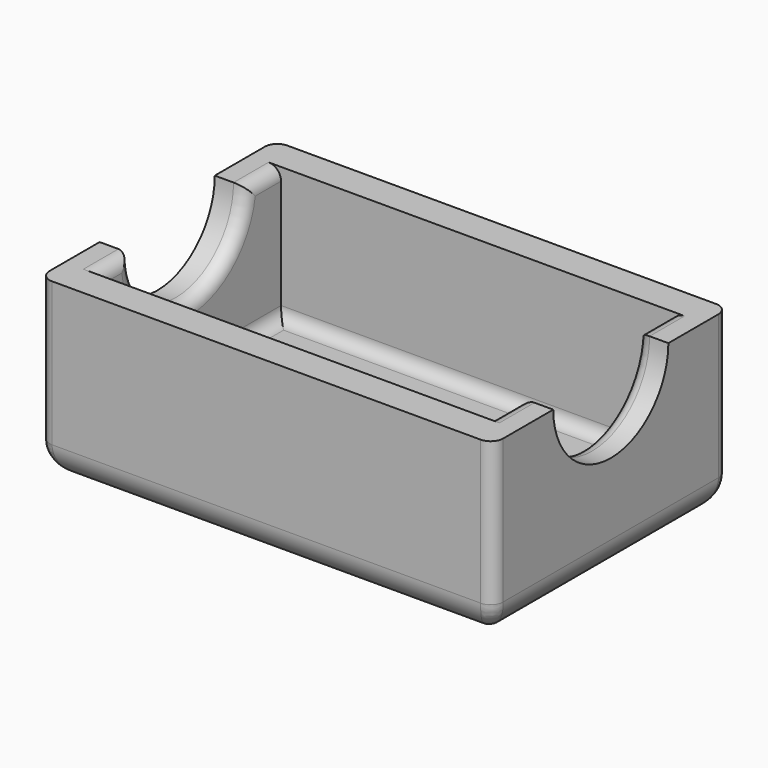
from build123d import *

# Parameters (mm, degrees)
F0_W     = 7.25
F0_H     = 4.7
F0_W_2   = 6.25
F0_H_2   = 3.7
F1_DEPTH = 2.8
F0_W_3   = 4
F0_H_3   = 2
F2_DEPTH = 0.65
F3_R     = 0.5
F5_DEPTH = 25
F6_R     = 0.2


with BuildPart() as f1:
    # F0 (on Top) → F1 (new body)
    with BuildSketch(Plane.XY):
        with Locations((-7.525, -4.5)):
            Rectangle(F0_W, F0_H)
        with Locations((-7.525, -4.5)):
            Rectangle(F0_W_2, F0_H_2, mode=Mode.SUBTRACT)
    extrude(amount=F1_DEPTH)

    # F0 (on Top) → F2 (join)
    with BuildSketch(Plane.XY):
        with Locations((-7.525, -4.5)):
            Rectangle(F0_W_2, F0_H_2)
        with Locations((-7.525, -4.5)):
            Rectangle(F0_W_3, F0_H_3, mode=Mode.SUBTRACT)
    extrude(amount=F2_DEPTH)

    # F3
    f3_edges = [f1.edges().sort_by_distance(p)[0] for p in [
        (-7.525, -2.15, 0),
        (-11.15, -4.5, 0),
        (-7.525, -6.85, 0),
        (-3.9, -4.5, 0),
        (-5.525, -4.5, 0),
        (-7.525, -5.5, 0),
        (-9.525, -4.5, 0),
        (-7.525, -3.5, 0),
    ]]
    fillet(f3_edges, radius=F3_R)

    # F4 (on face) → F5 (cut)
    with BuildSketch(Plane.YZ.offset(-3.9)):
        with BuildLine():
            ThreePointArc((-5.65, 2.8), (-4.5, 1.65), (-3.35, 2.8))
            Line((-3.35, 2.8), (-5.65, 2.8))
        make_face()
    extrude(amount=-F5_DEPTH, mode=Mode.SUBTRACT)

    # F6
    f6_edges = [f1.edges().sort_by_distance(p)[0] for p in [
        (-7.525, -2.65, 0.65),
        (-10.65, -4.5, 0.65),
        (-7.525, -6.35, 0.65),
        (-4.4, -4.5, 0.65),
        (-9.525, -4.5, 0.65),
        (-7.525, -3.5, 0.65),
        (-5.525, -4.5, 0.65),
        (-7.525, -5.5, 0.65),
        (-10.65, -4.5, 1.65),
        (-4.4, -4.5, 1.65),
        (-10.65, -3, 2.8),
        (-3.9, -2.15, 1.65),
        (-3.9, -6.85, 1.65),
        (-11.15, -2.15, 1.65),
        (-11.15, -6.85, 1.65),
        (-4.4, -3, 2.8),
        (-4.4, -6, 2.8),
        (-10.65, -6, 2.8),
    ]]
    fillet(f6_edges, radius=F6_R)


solid = f1.part
